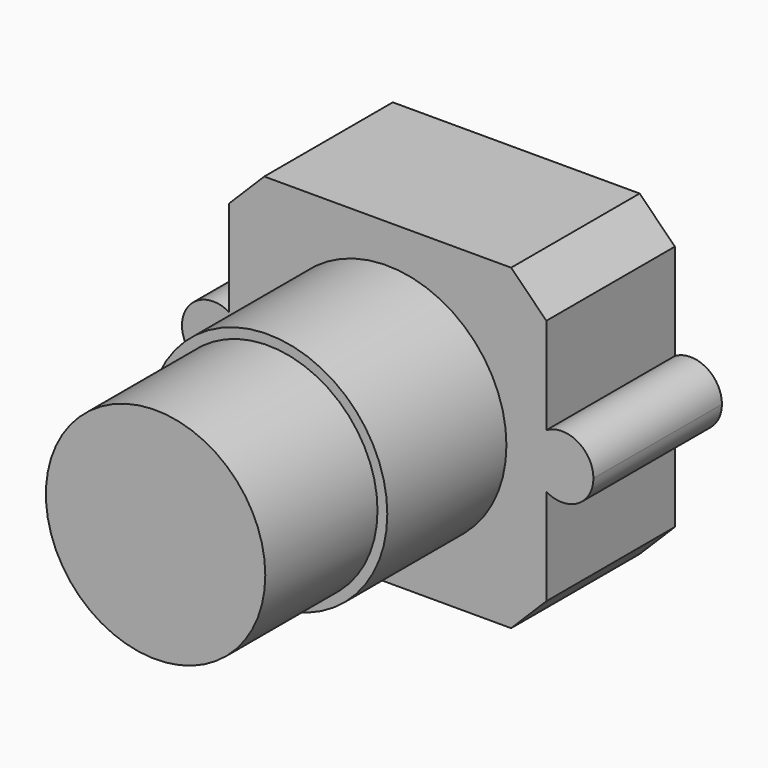
from build123d import *

# Parameters (mm, degrees)
F0_R     = 7.625
F0_R_2   = 7
F1_DEPTH = 10.25
F2_DEPTH = 19.75
F3_DEPTH = 28.7
F4_SIZE  = 2.25


with BuildPart() as f1:
    # F0 (on Front) → F1 (new body)
    with BuildSketch(Plane.XZ):
        with BuildLine():
            Line((10.175, 10.075), (-10.075, 10.075))
            Line((-10.075, 10.075), (-10.075, 1.7320508076))
            ThreePointArc((-10.075, 1.7320508076), (-9.3429491924, 1), (-9.075, 0))
            ThreePointArc((-9.075, 0), (-9.3429491924, -1), (-10.075, -1.7320508076))
            Line((-10.075, -1.7320508076), (-10.075, -10.175))
            Line((-10.075, -10.175), (10.175, -10.175))
            Line((10.175, -10.175), (10.175, -1.7820508076))
            ThreePointArc((10.175, -1.7820508076), (9.175, -0.05), (10.175, 1.6820508076))
            Line((10.175, 1.6820508076), (10.175, 10.075))
        make_face()
        Circle(F0_R, mode=Mode.SUBTRACT)
        with BuildLine():
            Line((-10.075, -1.7320508076), (-10.075, 1.7320508076))
            ThreePointArc((-10.075, 1.7320508076), (-13.075, 0), (-10.075, -1.7320508076))
        make_face()
        with BuildLine():
            ThreePointArc((13.175, -0.05), (12.175, 1.6820508076), (10.175, 1.6820508076))
            Line((10.175, 1.6820508076), (10.175, -1.7820508076))
            ThreePointArc((10.175, -1.7820508076), (12.175, -1.7820508076), (13.175, -0.05))
        make_face()
        with BuildLine():
            Line((10.175, -1.7820508076), (10.175, 1.6820508076))
            ThreePointArc((10.175, 1.6820508076), (9.175, -0.05), (10.175, -1.7820508076))
        make_face()
        Circle(F0_R)
        Circle(F0_R_2, mode=Mode.SUBTRACT)
        Circle(F0_R_2)
        with BuildLine():
            ThreePointArc((-9.075, 0), (-9.3429491924, 1), (-10.075, 1.7320508076))
            Line((-10.075, 1.7320508076), (-10.075, -1.7320508076))
            ThreePointArc((-10.075, -1.7320508076), (-9.3429491924, -1), (-9.075, 0))
        make_face()
    extrude(amount=F1_DEPTH)

    # F0 (on Front) → F2 (join)
    with BuildSketch(Plane.XZ):
        Circle(F0_R)
        Circle(F0_R_2, mode=Mode.SUBTRACT)
        Circle(F0_R_2)
    extrude(amount=F2_DEPTH)

    # F0 (on Front) → F3 (join)
    with BuildSketch(Plane.XZ):
        Circle(F0_R_2)
    extrude(amount=F3_DEPTH)

    # F4
    f4_edges = [f1.edges().sort_by_distance(p)[0] for p in [
        (-10.075, -5.125, 10.075),
        (10.175, -5.125, 10.075),
        (10.175, -5.125, -10.175),
        (-10.075, -5.125, -10.175),
    ]]
    chamfer(f4_edges, length=F4_SIZE)


solid = f1.part
